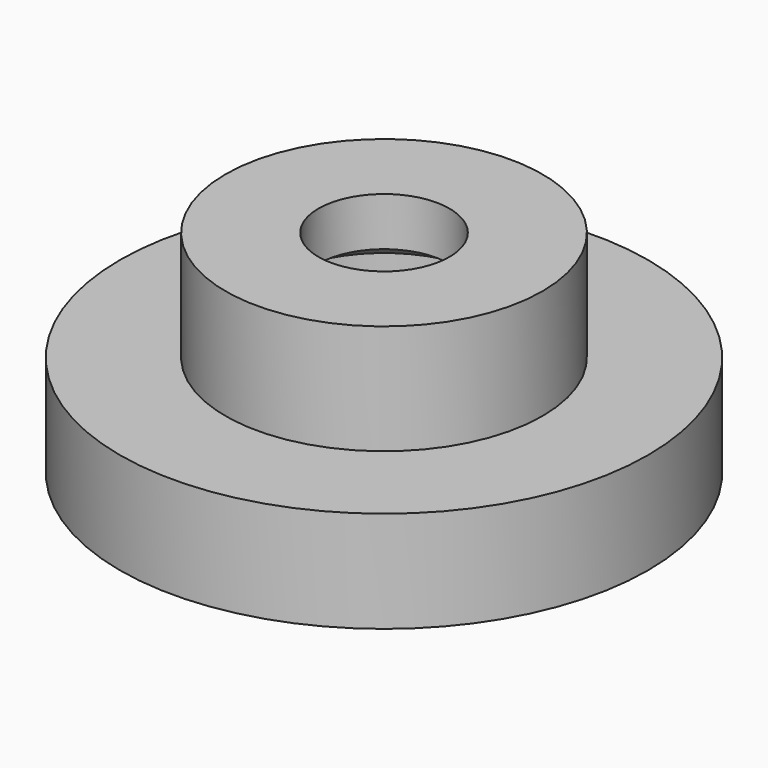
from build123d import *

# Parameters (mm, degrees)
F0_R     = 7.5
F1_DEPTH = 10
F0_R_2   = 12.5
F2_DEPTH = 4.8
F3_D     = 6.2
F3_DEPTH = 10
F3_TIP   = 1.862667919
F4_D     = 10.2
F4_DEPTH = 6.5
F4_TIP   = 3.064389157


with BuildPart() as f1:
    # F0 (on Top) → F1 (new body)
    with BuildSketch(Plane.XY):
        Circle(F0_R)
    extrude(amount=F1_DEPTH)

    # F0 (on Top) → F2 (join)
    with BuildSketch(Plane.XY):
        Circle(F0_R_2)
        Circle(F0_R, mode=Mode.SUBTRACT)
    extrude(amount=F2_DEPTH)

    # F3
    with Locations(Plane(origin=(0, 0, 0), x_dir=(1, 0, 0), z_dir=(0, 0, -1))):
        with Locations((0, 0)):
            Hole(F3_D / 2, depth=F3_DEPTH)
            with Locations((0, 0, -(F3_DEPTH + F3_TIP / 2))):  # 118° drill point
                Cone(0, F3_D / 2, F3_TIP, mode=Mode.SUBTRACT)

    # F4
    with Locations(Plane(origin=(0, 0, 0), x_dir=(1, 0, 0), z_dir=(0, 0, -1))):
        with Locations((0, 0)):
            Hole(F4_D / 2, depth=F4_DEPTH)
            with Locations((0, 0, -(F4_DEPTH + F4_TIP / 2))):  # 118° drill point
                Cone(0, F4_D / 2, F4_TIP, mode=Mode.SUBTRACT)


solid = f1.part
